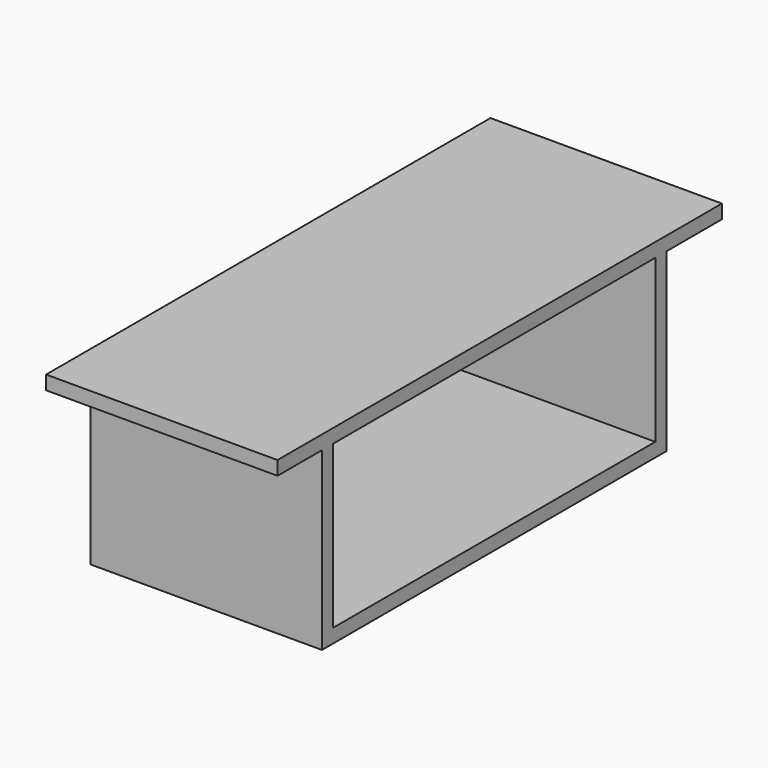
from build123d import *

# Parameters (mm, degrees)
SKETCH_W     = 50
SKETCH_H     = 93
PAD_DEPTH    = 3
SKETCH001_W  = 50
SKETCH001_H  = 3
PAD001_DEPTH = 35
SKETCH002_W  = 50
SKETCH002_H  = 120
PAD002_DEPTH = 3


with BuildPart() as part:
    # Sketch → Pad (new body)
    with BuildSketch(Plane.XY):
        with Locations((-25, 46.5)):
            Rectangle(SKETCH_W, SKETCH_H)
    extrude(amount=PAD_DEPTH)

    # Sketch001 → Pad001 (new body)
    with BuildSketch(Plane.XY.offset(3)):
        with Locations((-25, 1.5)):
            Rectangle(SKETCH001_W, SKETCH001_H)
        with Locations((-25, 91.5)):
            Rectangle(SKETCH001_W, SKETCH001_H)
    extrude(amount=PAD001_DEPTH)

    # Sketch002 → Pad002 (new body)
    with BuildSketch(Plane.XY.offset(38)):
        with Locations((-25, 48)):
            Rectangle(SKETCH002_W, SKETCH002_H)
    extrude(amount=PAD002_DEPTH)


solid = part.part
